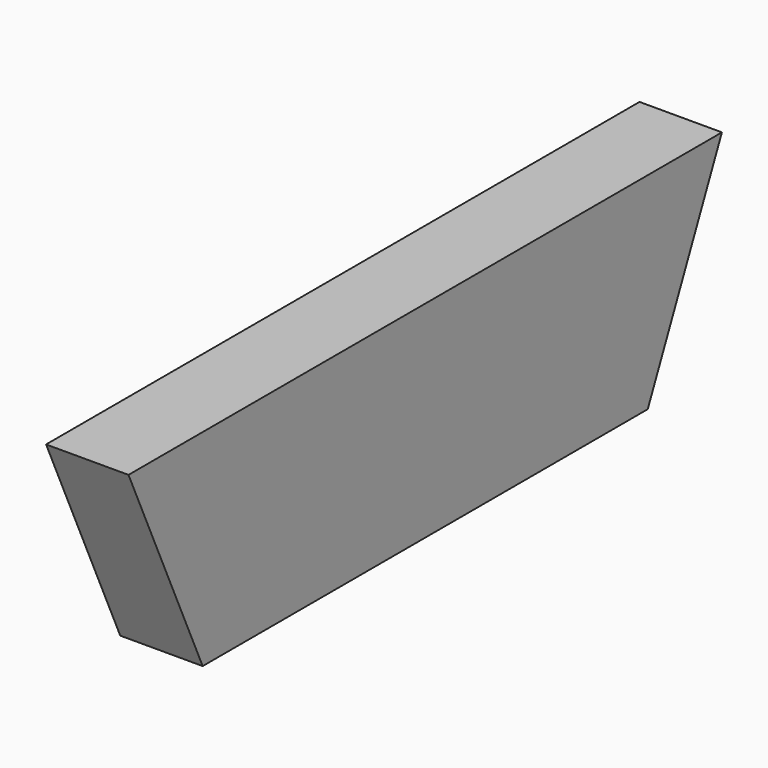
from build123d import *

# Parameters (mm, degrees)
F0_W     = 685.8
F0_H     = 127
F1_DEPTH = 101.6


with BuildPart() as f1:
    # F0 (on Right) → F1 (new body)
    with BuildSketch(Plane.YZ):
        Polygon((400.05, 63.5), (342.9, 63.5), (342.9, -63.5), align=None)
        Polygon((-342.9, -63.5), (-342.9, 63.5), (-400.05, 63.5), align=None)
        Rectangle(F0_W, F0_H)
        Polygon((-342.9, 63.5), (342.9, 63.5), (400.05, 63.5), (457.2, 190.5), (-457.2, 190.5), (-400.05, 63.5), align=None)
    extrude(amount=F1_DEPTH)


solid = f1.part
